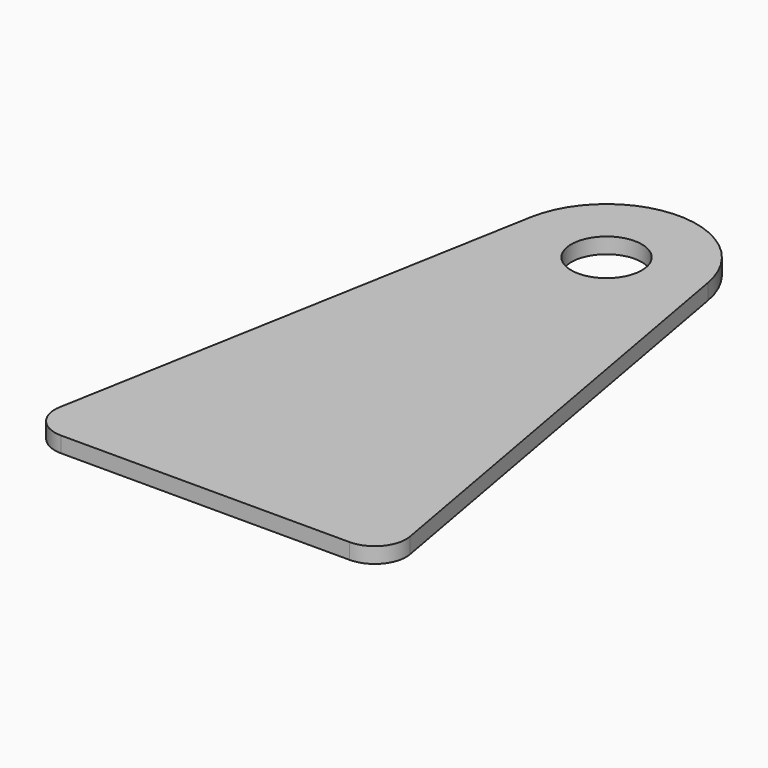
from build123d import *

# Parameters (mm, degrees)
F0_R     = 14.2875
F1_DEPTH = 6.35


with BuildPart() as f1:
    # F0 (on Top) → F1 (new body)
    with BuildSketch(Plane.XY):
        with BuildLine():
            ThreePointArc((-70.970277, 14.94896), (-68.213982, 4.553583), (-58.47099, 0))
            Line((-58.47099, 0), (58.47099, 0))
            ThreePointArc((58.47099, 0), (68.213982, 4.553583), (70.970277, 14.94896))
            Line((70.970277, 14.94896), (35.93545, 209.665761))
            ThreePointArc((35.93545, 209.665761), (0, 239.7125), (-35.93545, 209.665761))
            Line((-35.93545, 209.665761), (-70.970277, 14.94896))
        make_face()
        with Locations((0, 203.2)):
            Circle(F0_R, mode=Mode.SUBTRACT)
    extrude(amount=F1_DEPTH)


solid = f1.part
